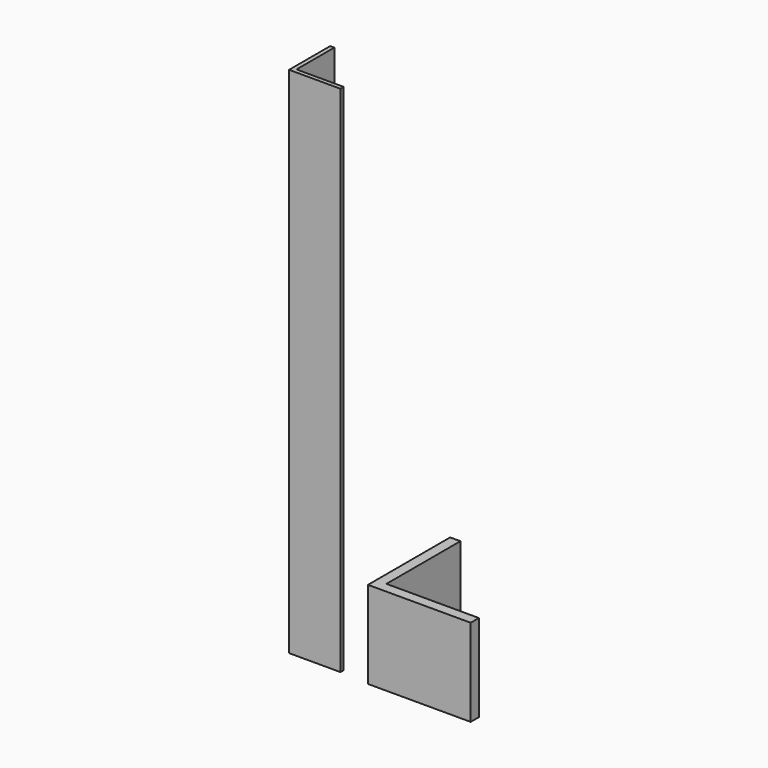
from build123d import *

# Parameters (mm, degrees)
F2_DEPTH = 500
F3_R     = 0.5
F4_DEPTH = 85


with BuildPart() as f2:
    # F0 (on Top) → F2 (new body)
    with BuildSketch(Plane.XY):
        Polygon((-21.83867, 25.410469), (-25.83867, 25.410469), (-25.83867, -24.589531), (24.16133, -24.589531), (24.16133, -20.589531), (-21.83867, -20.589531), align=None)
    extrude(amount=F2_DEPTH)

    # F3
    f3_edges = [f2.edges().sort_by_distance(p)[0] for p in [
        (-21.83867, -20.589531, 250),
    ]]
    fillet(f3_edges, radius=F3_R)


with BuildPart() as f4:
    # F1 (on Top) → F4 (new body)
    with BuildSketch(Plane.XY):
        Polygon((62.687164, 73.239701), (52.687164, 73.239701), (52.687164, -26.760299), (152.687164, -26.760299), (152.687164, -16.760299), (62.687164, -16.760299), align=None)
    extrude(amount=F4_DEPTH)


solid = Compound([f2.part, f4.part])
